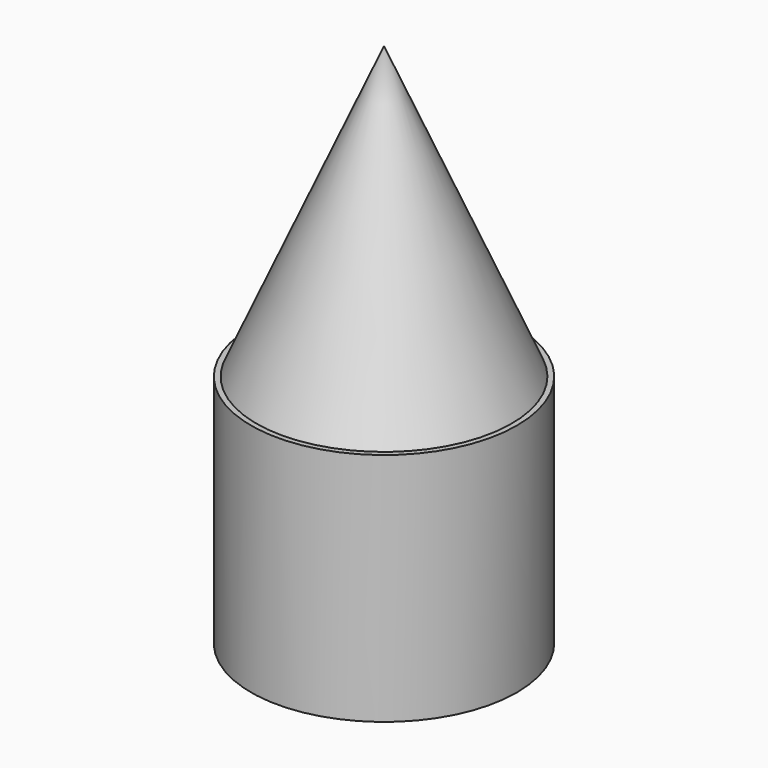
from build123d import *

# Parameters (mm, degrees)
F0_R     = 10.75
F0_R_2   = 6.6031446714
F1_DEPTH = 19


with BuildPart() as f1:
    # F0 (on Top) → F1 (new body)
    with BuildSketch(Plane.XY):
        Circle(F0_R)
        Circle(F0_R_2, mode=Mode.SUBTRACT)
    extrude(amount=-F1_DEPTH)

    # F2 (on Right) → F4 (revolve)
    with BuildSketch(Plane.YZ):
        Polygon((-10.3220222518, 0), (0, 0), (0, 23.5172845423), align=None)
    revolve(axis=Axis((0, 0, -8.2243736833), (0, 0, -1)))


solid = f1.part
